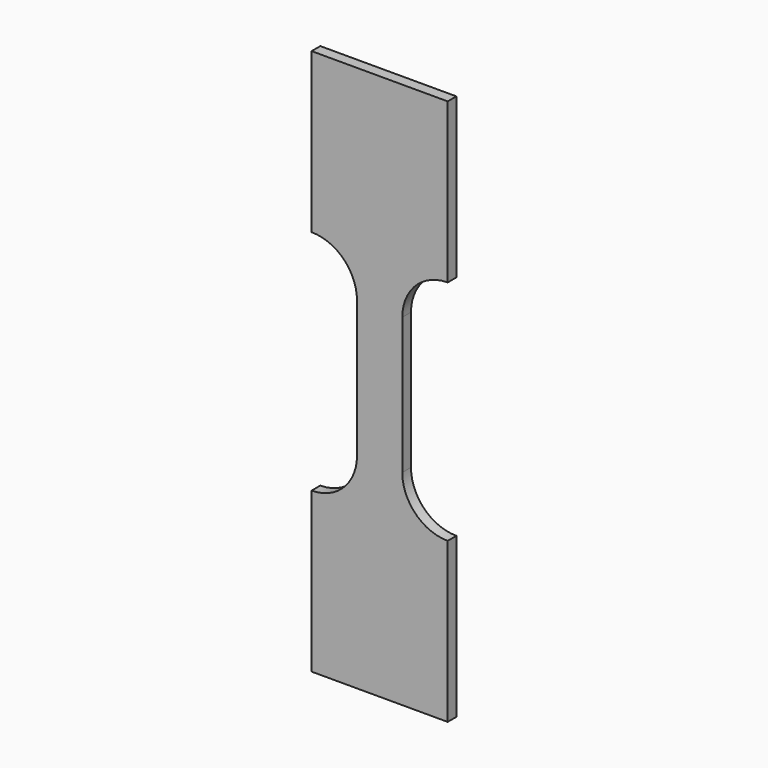
from build123d import *

# Parameters (mm, degrees)
F1_DEPTH = 1.52


with BuildPart() as f1:
    # F0 (on Front) → F1 (new body)
    with BuildSketch(Plane.XZ):
        with BuildLine():
            Line((-3.16, 9.54), (-3.16, 0))
            Line((-3.16, 0), (-3.16, -9.54))
            ThreePointArc((-3.16, -9.54), (-5.016943, -14.023057), (-9.5, -15.88))
            Line((-9.5, -15.88), (-9.5, -38.14))
            Line((-9.5, -38.14), (9.5, -38.14))
            Line((9.5, -38.14), (9.5, -15.88))
            ThreePointArc((9.5, -15.88), (5.016943, -14.023057), (3.16, -9.54))
            Line((3.16, -9.54), (3.16, 0))
            Line((3.16, 0), (3.16, 9.54))
            ThreePointArc((3.16, 9.54), (5.016943, 14.023057), (9.5, 15.88))
            Line((9.5, 15.88), (9.5, 38.14))
            Line((9.5, 38.14), (-9.5, 38.14))
            Line((-9.5, 38.14), (-9.5, 15.88))
            ThreePointArc((-9.5, 15.88), (-5.016943, 14.023057), (-3.16, 9.54))
        make_face()
    extrude(amount=F1_DEPTH)


solid = f1.part
